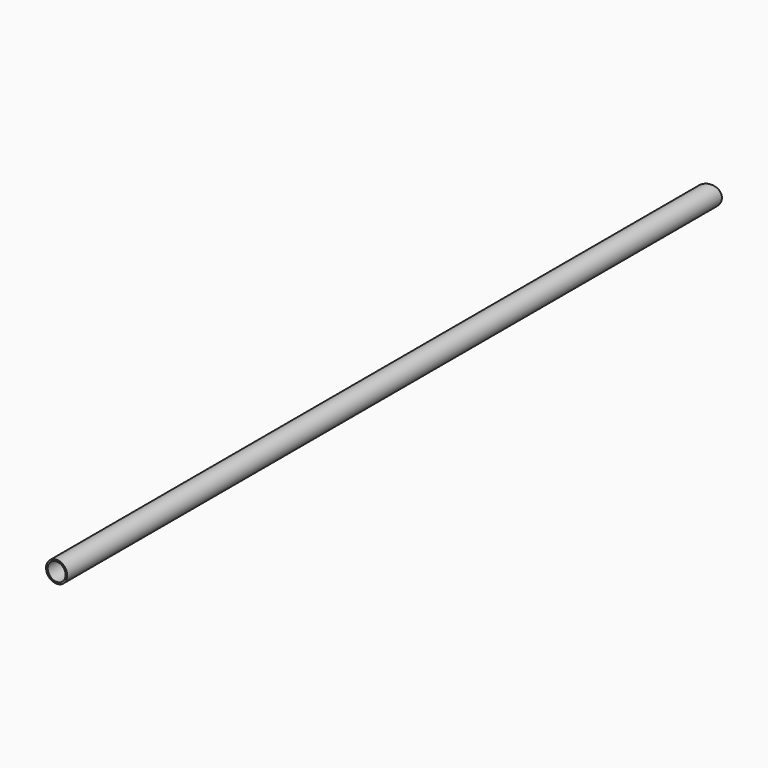
from build123d import *

# Parameters (mm, degrees)
F0_R          = 21.2
F0_R_2        = 17.95
F1_DEPTH      = 1638
F3_DEPTH      = 21.201
F3_DEPTH_BACK = 21.201


with BuildPart() as f1:
    # F0 (on Front) → F1 (new body)
    with BuildSketch(Plane.XZ):
        Circle(F0_R)
        Circle(F0_R_2, mode=Mode.SUBTRACT)
    extrude(amount=F1_DEPTH)

    # F2 (on Top) → F3 (cut, two sides)
    with BuildSketch(Plane.XY) as f3_sk:
        Polygon((-21.2, 0), (-21.2, -16.8792704184), (21.2, 0), align=None)
    extrude(amount=-F3_DEPTH, mode=Mode.SUBTRACT)
    extrude(f3_sk.sketch, amount=F3_DEPTH_BACK, mode=Mode.SUBTRACT)


solid = f1.part
